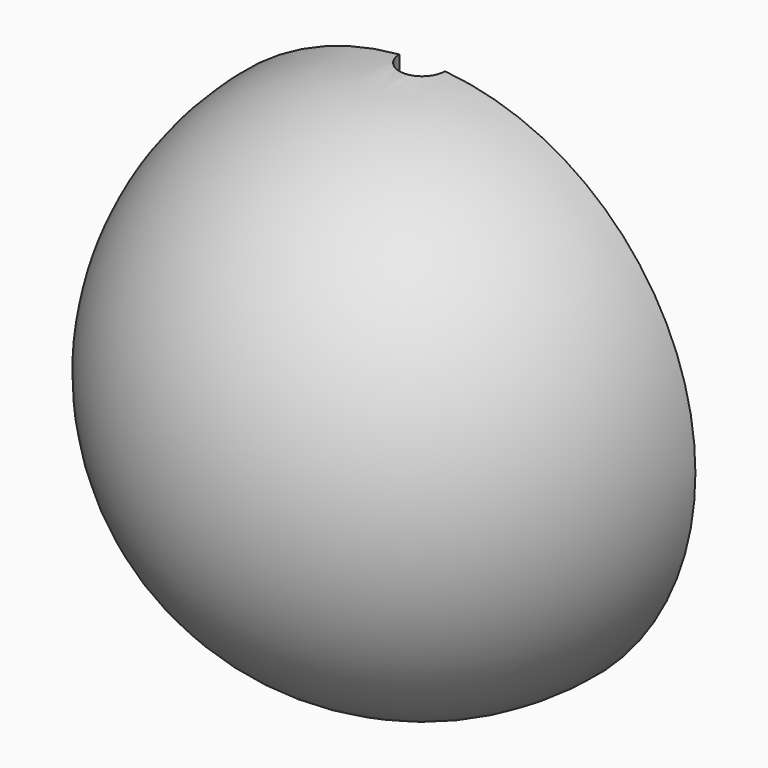
from build123d import *

# Parameters (mm, degrees)
F1_ANGLE  = 180
F4_R      = 2.5
F5_DEPTH  = 5
F6_R      = 2.5025
F7_DEPTH  = 4
F7_FACE_R = 2.5025
F9_R      = 2.375
F11_DEPTH = 30
F13_DEPTH = 2.5


with BuildPart() as f1:
    # F0 (on Front) → F1 (revolve)
    with BuildSketch(Plane.XZ):
        with BuildLine():
            ThreePointArc((15, 0), (0, 15), (-15, 0))
            Line((-15, 0), (15, 0))
        make_face()
    revolve(axis=Axis((0, 0, 0), (1, 0, 0)), revolution_arc=F1_ANGLE)

    # F4 (on Front) → F5 (cut)
    with BuildSketch(Plane.XZ):
        with Locations((7.5, 0)):
            Circle(F4_R)
    extrude(amount=F5_DEPTH, mode=Mode.SUBTRACT)

    # F6 (on Front) → F7 (join)
    with BuildSketch(Plane.XZ):
        with Locations((-7.5, 0)):
            Circle(F6_R)
    extrude(amount=-F7_DEPTH)

    # F7_face (on face) → F10 section 0
    with BuildSketch(Plane(origin=(-7.5, 4, 0), x_dir=(1, 0, 0), z_dir=(0, 1, 0))):
        Circle(F7_FACE_R)
    # F9 (on offset) → F10 section 1
    with BuildSketch(Plane.XZ.offset(-4.8)):
        with Locations((-7.5, 0)):
            Circle(F9_R)
    loft()

    # F3 (on offset) → F11 (cut)
    with BuildSketch(Plane.XY.offset(15)):
        with BuildLine():
            Line((1.25, 0), (-1.25, 0))
            ThreePointArc((-1.25, 0), (0, -1.25), (1.25, 0))
        make_face()
    extrude(amount=-F11_DEPTH, mode=Mode.SUBTRACT)

    # F12 (on Front) → F13 (cut)
    with BuildSketch(Plane.XZ):
        Polygon((2.5, -7.5), (2.5, -2.5), (0, -2.5), (-2.5, -2.5), (-2.5, -7.5), align=None)
    extrude(amount=F13_DEPTH, mode=Mode.SUBTRACT)


solid = f1.part
